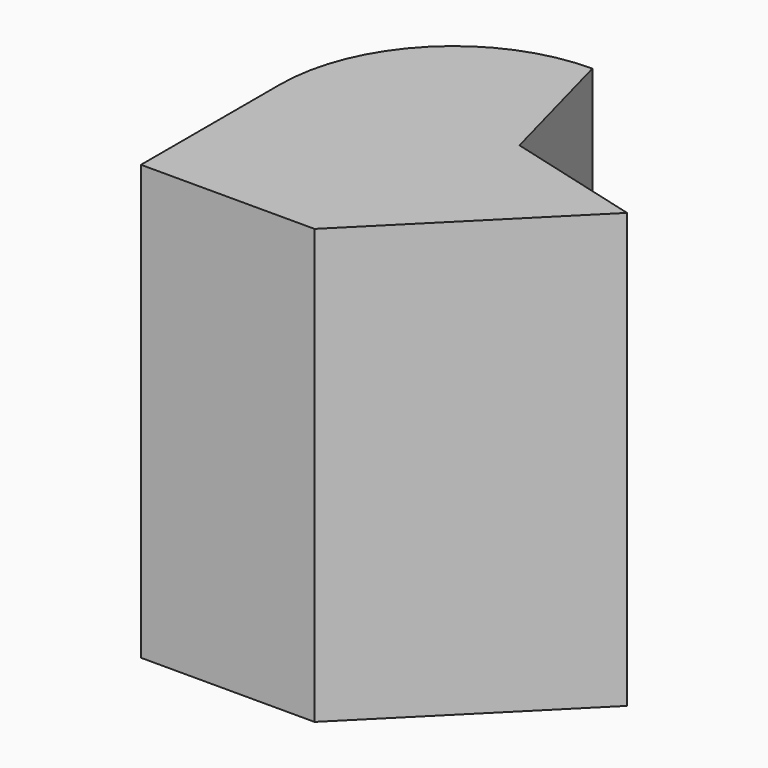
from build123d import *

# Parameters (mm, degrees)
F1_DEPTH = 50


with BuildPart() as f1:
    # F0 (on Top) → F1 (new body)
    with BuildSketch(Plane.XY):
        with BuildLine():
            ThreePointArc((0, 20), (-14.142136, 14.142136), (-20, 0))
            Line((-20, 0), (-20, -20))
            Line((-20, -20), (0, -20))
            Line((0, -20), (20, 0))
            Line((20, 0), (4.226497, 4.226497))
            Line((4.226497, 4.226497), (0, 20))
        make_face()
    extrude(amount=F1_DEPTH)


solid = f1.part
